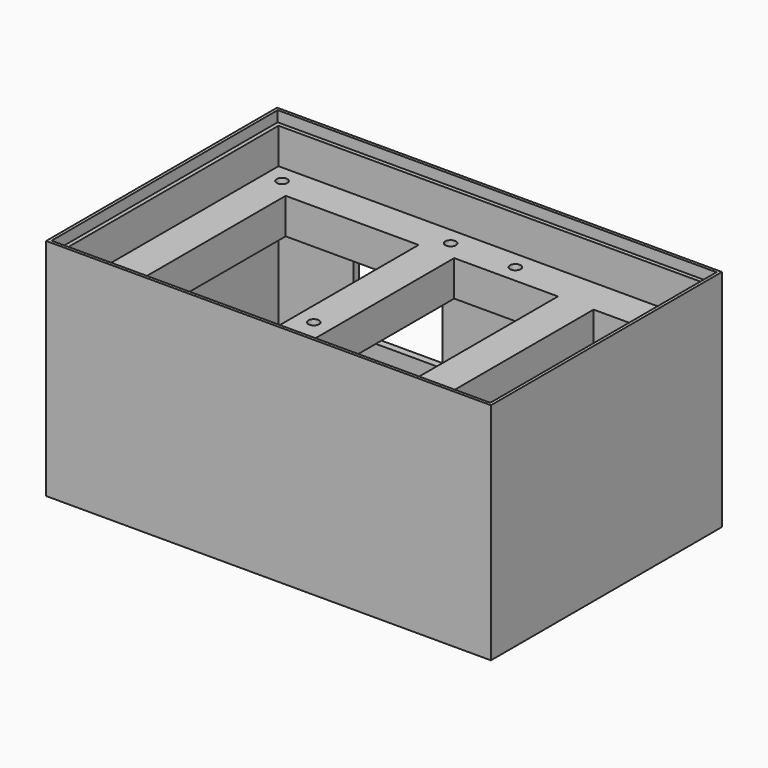
from build123d import *

# Parameters (mm, degrees)
F0_W      = 124.8
F0_H      = 81
F1_DEPTH  = 63
F2_W      = 123.1
F2_H      = 79.3
F3_DEPTH  = 3
F4_W      = 123.1
F4_H      = 79.3
F5_DEPTH  = 3
F6_W      = 120.8
F6_H      = 77
F7_DEPTH  = 60.001
F8_W      = 12
F8_H      = 10
F9_DEPTH  = 81
F10_W     = 12
F10_H     = 10
F11_DEPTH = 81
F12_W     = 12
F12_H     = 10
F13_DEPTH = 124.8
F14_R     = 1.5
F15_DEPTH = 50.001
F16_R     = 1.5
F17_DEPTH = 50.001
F18_R     = 1.5
F19_DEPTH = 50.001
F20_R     = 1.5
F21_DEPTH = 50.001
F22_R     = 1.5
F23_DEPTH = 50.001
F24_W     = 10
F24_H     = 10
F25_DEPTH = 81
F26_R     = 1.5
F27_DEPTH = 50.001
F28_W     = 10
F28_H     = 10
F29_DEPTH = 69
F30_R     = 1.5
F31_DEPTH = 50.001
F32_W     = 25
F32_H     = 25
F33_DEPTH = 25
F34_R     = 1.5
F35_DEPTH = 50.001


with BuildPart() as f1:
    # F0 (on Top) → F1 (new body)
    with BuildSketch(Plane.XY):
        Rectangle(F0_W, F0_H)
    extrude(amount=F1_DEPTH)

    # F2 (on face) → F3 (cut)
    with BuildSketch(Plane.XY.offset(63)):
        Rectangle(F2_W, F2_H)
    extrude(amount=-F3_DEPTH, mode=Mode.SUBTRACT)

    # F4 (on face) → F5 (cut)
    with BuildSketch(Plane(origin=(0, 0, 0), x_dir=(1, 0, 0), z_dir=(0, 0, -1))):
        Rectangle(F4_W, F4_H)
    extrude(amount=-F5_DEPTH, mode=Mode.SUBTRACT)

    # F6 (on face) → F7 (cut, through all)
    with BuildSketch(Plane.XY.offset(60)):
        Rectangle(F6_W, F6_H)
    extrude(amount=-F7_DEPTH, mode=Mode.SUBTRACT)

    # F8 (on face) → F9 (join)
    with BuildSketch(Plane.XZ.offset(40.5)):
        with Locations((-56.4, 45)):
            Rectangle(F8_W, F8_H)
    extrude(amount=-F9_DEPTH)

    # F10 (on face) → F11 (join)
    with BuildSketch(Plane.XZ.offset(40.5)):
        with Locations((56.4, 45)):
            Rectangle(F10_W, F10_H)
    extrude(amount=-F11_DEPTH)

    # F12 (on face) → F13 (join)
    with BuildSketch(Plane(origin=(-62.4, 0, 0), x_dir=(0, -1, 0), z_dir=(-1, 0, 0))):
        with Locations((-34.5, 45)):
            Rectangle(F12_W, F12_H)
    extrude(amount=-F13_DEPTH)

    # F14 (on face) → F15 (cut, through all)
    with BuildSketch(Plane.XY.offset(50)):
        with Locations((-55.4, 33.5)):
            Circle(F14_R)
    extrude(amount=-F15_DEPTH, mode=Mode.SUBTRACT)

    # F16 (on face) → F17 (cut, through all)
    with BuildSketch(Plane.XY.offset(50)):
        with Locations((55.4, 33.5)):
            Circle(F16_R)
    extrude(amount=-F17_DEPTH, mode=Mode.SUBTRACT)

    # F18 (on face) → F19 (cut, through all)
    with BuildSketch(Plane.XY.offset(50)):
        with Locations((-55.4, -22.5)):
            Circle(F18_R)
    extrude(amount=-F19_DEPTH, mode=Mode.SUBTRACT)

    # F20 (on face) → F21 (cut, through all)
    with BuildSketch(Plane.XY.offset(50)):
        with Locations((-8.1, 33.5)):
            Circle(F20_R)
    extrude(amount=-F21_DEPTH, mode=Mode.SUBTRACT)

    # F22 (on face) → F23 (cut, through all)
    with BuildSketch(Plane.XY.offset(50)):
        with Locations((10.06, 33.5)):
            Circle(F22_R)
    extrude(amount=-F23_DEPTH, mode=Mode.SUBTRACT)

    # F24 (on face) → F25 (join)
    with BuildSketch(Plane.XZ.offset(40.5)):
        with Locations((31, 45)):
            Rectangle(F24_W, F24_H)
    extrude(amount=-F25_DEPTH)

    # F26 (on face) → F27 (cut, through all)
    with BuildSketch(Plane.XY.offset(50)):
        with Locations((31, -22.5)):
            Circle(F26_R)
    extrude(amount=-F27_DEPTH, mode=Mode.SUBTRACT)

    # F28 (on face) → F29 (join)
    with BuildSketch(Plane.XZ.offset(40.5)):
        with Locations((-8.1, 45)):
            Rectangle(F28_W, F28_H)
    extrude(amount=-F29_DEPTH)

    # F30 (on face) → F31 (cut, through all)
    with BuildSketch(Plane.XY.offset(50)):
        with Locations((-8.1, -14.5)):
            Circle(F30_R)
    extrude(amount=-F31_DEPTH, mode=Mode.SUBTRACT)

    # F32 (on face) → F33 (cut)
    with BuildSketch(Plane(origin=(0, 40.5, 0), x_dir=(-1, 0, 0), z_dir=(0, 1, 0))):
        with Locations((26.9, 27.5)):
            Rectangle(F32_W, F32_H)
    extrude(amount=-F33_DEPTH, mode=Mode.SUBTRACT)

    # F34 (on face) → F35 (cut, through all)
    with BuildSketch(Plane.XY.offset(50)):
        with Locations((55.4, -24.54)):
            Circle(F34_R)
    extrude(amount=-F35_DEPTH, mode=Mode.SUBTRACT)


solid = f1.part
